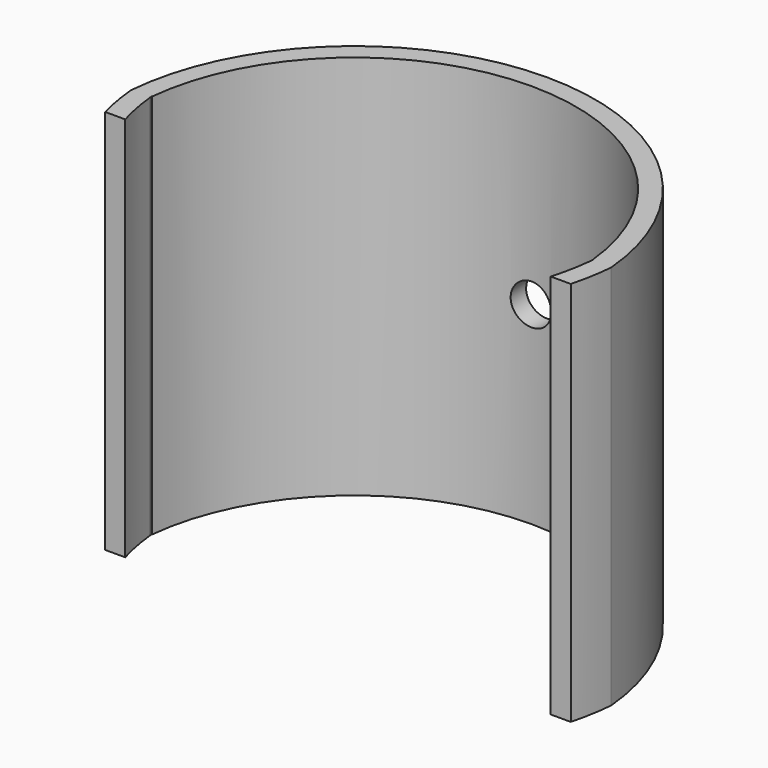
from build123d import *

# Parameters (mm, degrees)
PAD008_DEPTH    = 40
POCKET006_DEPTH = 40
POCKET007_DEPTH = 40
SKETCH014_R     = 2.1
POCKET008_DEPTH = 25.001


with BuildPart() as part:
    # Sketch011 → Pad008 (new body)
    with BuildSketch(Plane.XY):
        with BuildLine():
            ThreePointArc((24.9048674523, 2.1788935687), (0, 25), (-24.9048674523, 2.1788935687))
            ThreePointArc((-24.9048674523, 2.1788935687), (-24.620193675, 0.0165817754), (-24.1481451973, -2.1126907965))
            Line((-24.1481451973, -2.1126907965), (24.148145198, -2.1126907965))
            ThreePointArc((24.148145198, -2.1126907965), (24.6201936752, 0.0165817755), (24.9048674523, 2.1788935687))
        make_face()
    extrude(amount=PAD008_DEPTH)

    # Sketch012 → Pocket006 (cut)
    with BuildSketch(Plane.XY):
        with BuildLine():
            ThreePointArc((22.909479324, 2.0385674149), (0, 23), (-22.909479324, 2.0385674149))
            Line((-22.909479324, 2.0385674149), (22.909479324, 2.0385674149))
        make_face()
    extrude(amount=POCKET006_DEPTH, mode=Mode.SUBTRACT)

    # Sketch013 → Pocket007 (cut)
    with BuildSketch(Plane.XY):
        with BuildLine():
            ThreePointArc((-22.912478289, 2.3532080284), (3.93e-08, -18.642213), (22.9124783677, 2.3532080284))
            Line((-22.912478289, 2.3532080284), (22.9124783677, 2.3532080284))
        make_face()
    extrude(amount=POCKET007_DEPTH, mode=Mode.SUBTRACT)

    # Sketch014 → Pocket008 (cut, through all)
    with BuildSketch(Plane.XZ):
        with Locations((0, 20.063227)):
            Circle(SKETCH014_R)
    extrude(amount=-POCKET008_DEPTH, mode=Mode.SUBTRACT)


solid = part.part
